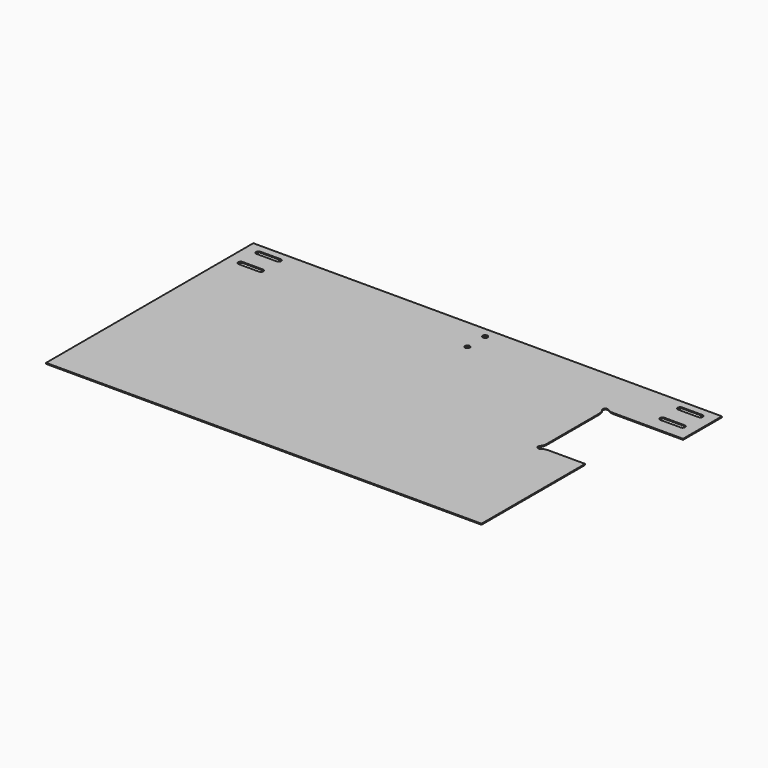
from build123d import *

# Parameters (mm, degrees)
F0_R     = 6
F1_DEPTH = 2.5


with BuildPart() as f1:
    # F0 (on Top) → F1 (new body)
    with BuildSketch(Plane.XY):
        with BuildLine():
            Line((0, 640), (0, 0))
            Line((0, 0), (1076, 0))
            Line((1076, 0), (1076, 320))
            Line((1076, 320), (985.05, 320))
            ThreePointArc((985.05, 320), (977.017815, 318.696556), (969.81, 314.92))
            ThreePointArc((969.81, 314.92), (961.509872, 315.509872), (960.92, 323.81))
            ThreePointArc((960.92, 323.81), (964.696556, 331.017815), (966, 339.05))
            Line((966, 339.05), (966, 500.95))
            ThreePointArc((966, 500.95), (964.696556, 508.982185), (960.92, 516.19))
            ThreePointArc((960.92, 516.19), (961.509872, 524.490128), (969.81, 525.08))
            ThreePointArc((969.81, 525.08), (977.017815, 521.303444), (985.05, 520))
            Line((985.05, 520), (1158, 520))
            Line((1158, 520), (1158, 640))
            Line((1158, 640), (0, 640))
        make_face()
        with BuildLine():
            ThreePointArc((33, 554), (27, 560), (33, 566))
            Line((33, 566), (83, 566))
            ThreePointArc((83, 566), (89, 560), (83, 554))
            Line((83, 554), (33, 554))
        make_face(mode=Mode.SUBTRACT)
        with BuildLine():
            ThreePointArc((33, 609), (27, 615), (33, 621))
            Line((33, 621), (83, 621))
            ThreePointArc((83, 621), (89, 615), (83, 609))
            Line((83, 609), (33, 609))
        make_face(mode=Mode.SUBTRACT)
        with Locations((593, 560)):
            Circle(F0_R, mode=Mode.SUBTRACT)
        with Locations((593, 615)):
            Circle(F0_R, mode=Mode.SUBTRACT)
        with BuildLine():
            ThreePointArc((1075, 554), (1069, 560), (1075, 566))
            Line((1075, 566), (1125, 566))
            ThreePointArc((1125, 566), (1131, 560), (1125, 554))
            Line((1125, 554), (1075, 554))
        make_face(mode=Mode.SUBTRACT)
        with BuildLine():
            ThreePointArc((1075, 609), (1069, 615), (1075, 621))
            Line((1075, 621), (1125, 621))
            ThreePointArc((1125, 621), (1131, 615), (1125, 609))
            Line((1125, 609), (1075, 609))
        make_face(mode=Mode.SUBTRACT)
    extrude(amount=F1_DEPTH)


solid = f1.part
